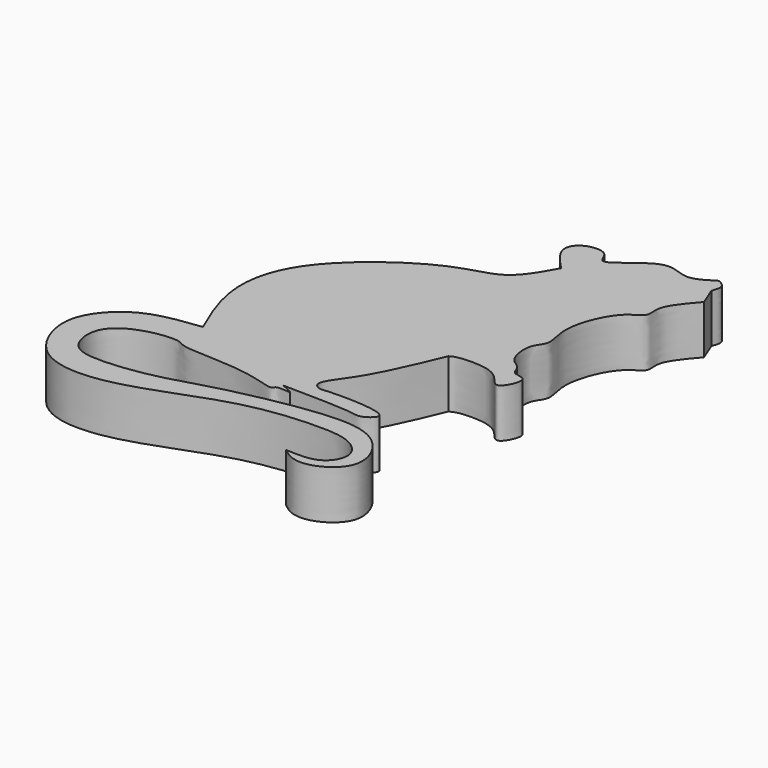
from build123d import *

# Parameters (mm, degrees)
F1_DEPTH = 10


with BuildPart() as f1:
    # F0 (on Top) → F1 (new body)
    with BuildSketch(Plane.XY):
        with BuildLine():
            add(Edge.make_bspline(
                [(-20.3318186104, -12.9818189889), (-22.1909640282, -8.7056579563), (-25.9633533516, -0.0289056861), (-22.8497945532, 15.2336411762), (-3.2731803426, 29.3160029547), (6.953409758, 30.1133082363), (10.1622275568, 35.9050945132), (11.7409080267, 38.7545488775)],
                knots=[0, 0, 0, 0, 0.2008447279, 0.4075337517, 0.6682374451, 0.836778808, 1, 1, 1, 1], degree=3))
            add(Edge.make_bspline(
                [(-20.3318186104, -12.9818189889), (-24.0638505453, -13.4368093666), (-31.0144325246, -14.284189018), (-37.4757307039, -20.0659648945), (-39.7198860643, -26.9590485213), (-34.8126886045, -37.924905119), (-19.3792489329, -38.5955802997), (-0.6472707453, -29.4892154363), (14.8076178453, -28.1803730284), (22.8031655582, -28.6927355998), (26.7624344385, -33.0535460744), (23.6769593327, -38.3724193898), (19.1695152745, -38.1257849932), (16.7045481503, -37.9909090698)],
                knots=[0, 0, 0, 0, 0.0971262611, 0.1808891382, 0.2576603702, 0.3513266689, 0.4607487723, 0.5978104893, 0.7144948488, 0.795811279, 0.8595026255, 0.9231667871, 1, 1, 1, 1], degree=3))
            add(Edge.make_bspline(
                [(16.7045481503, -37.9909090698), (17.4607134748, -38.5765872014), (19.1287414768, -39.8685368479), (23.6043003003, -40.1652100155), (30.6928582976, -35.2017967785), (25.5506075707, -24.1423593065), (11.4305879373, -24.2456092354), (-6.4905393996, -28.2008857323), (-15.5625379006, -31.3612133371), (-26.7908570377, -32.7804182729), (-32.7129847987, -31.2763453883), (-33.9606745945, -23.5985963331), (-27.431164567, -19.5155335702), (-20.0904796232, -18.810399515), (-18.6263232753, -20.7406863168), (-5.1247509046, -20.1526695919), (1.6586835846, -23.2799106452), (1.6516942964, -21.5219590397), (6.1993163008, -22.3912763292), (3.6482963288, -21.3327294647), (2.3863632232, -20.809089765)],
                knots=[0, 0, 0, 0, 0.0372969136, 0.0822734054, 0.1403243882, 0.2059393479, 0.2857684157, 0.3799627895, 0.4495577743, 0.522007823, 0.5725169952, 0.6260200392, 0.6848587121, 0.74165864, 0.7730651188, 0.8538456365, 0.909428432, 0.9291400873, 0.9649471699, 1, 1, 1, 1], degree=3))
            add(Edge.make_bspline(
                [(2.3863632232, -20.809089765), (8.2361878019, -20.8848123608), (16.5123951113, -20.9919430777), (18.8743549079, -21.9069007441), (23.8431878505, -17.9114116301), (9.070728277, -17.7274518319), (7.5206776392, -18.2517102424), (5.4344142323, -16.5340558641), (10.7681373209, -10.4858476734), (14.4519168645, -1.7280937367), (16.7045481503, 3.6272730213)],
                knots=[0, 0, 0, 0, 0.1924887496, 0.2723289862, 0.3556776975, 0.5283700264, 0.6020629551, 0.6641587317, 0.7946330558, 1, 1, 1, 1], degree=3))
            add(Edge.make_bspline(
                [(16.7045481503, 3.6272730213), (17.0429231103, 3.8375296541), (18.052884684, 4.4650912202), (24.0576252286, 4.6364333538), (27.1545876542, 2.7661166598), (29.355725123, -0.8753803122), (32.4034208573, 5.7660247579), (28.1934571589, 5.168157985), (28.1360510442, 7.8594568878), (25.015411802, 8.844249046), (24.2073076948, 14.8256278696), (27.1342023316, 17.0950411858), (24.4714389813, 22.6472463455), (28.4959102762, 32.8929351904), (33.3317835535, 34.2590169568), (31.9147484161, 38.1084922917), (35.0193489441, 41.6914538321), (36.9409099221, 43.9090915024)],
                knots=[0, 0, 0, 0, 0.0402773133, 0.1202173434, 0.1864458708, 0.2402724477, 0.3100348278, 0.3626577912, 0.4094884288, 0.465761664, 0.542012181, 0.5997546329, 0.6772047333, 0.7852287138, 0.8514962577, 0.9080851163, 1, 1, 1, 1], degree=3))
            add(Edge.make_bspline(
                [(36.9409099221, 43.9090915024), (36.4318192005, 45.1818195482), (35.9227284789, 46.454547594), (35.4136377573, 47.7272756398)],
                knots=[0, 0, 0, 0, 4.1123096153, 4.1123096153, 4.1123096153, 4.1123096153], degree=3))
            add(Edge.make_bspline(
                [(35.4136377573, 47.7272756398), (35.7053005817, 48.4888326882), (36.2813592506, 49.9929720671), (34.9335734919, 50.7767104074), (34.268181771, 51.163636148)],
                knots=[0, 0, 0, 0, 0.5063074999, 1, 1, 1, 1], degree=3))
            add(Edge.make_bspline(
                [(34.268181771, 51.163636148), (32.5373291874, 50.0591698487), (29.0712506858, 47.847446602), (23.6339266697, 52.2275785273), (14.9766052067, 42.4626655846), (14.6544580236, 47.9198649871), (9.4812835854, 47.7241046565), (7.3098650559, 44.6890608189), (9.0155516551, 41.6171259642), (10.7919103969, 39.7513281973), (11.7409080267, 38.7545488775)],
                knots=[0, 0, 0, 0, 0.1387569382, 0.2778644727, 0.4585584194, 0.5533731499, 0.674027066, 0.7781441072, 0.8814762404, 1, 1, 1, 1], degree=3))
        make_face()
    extrude(amount=F1_DEPTH)


solid = f1.part
